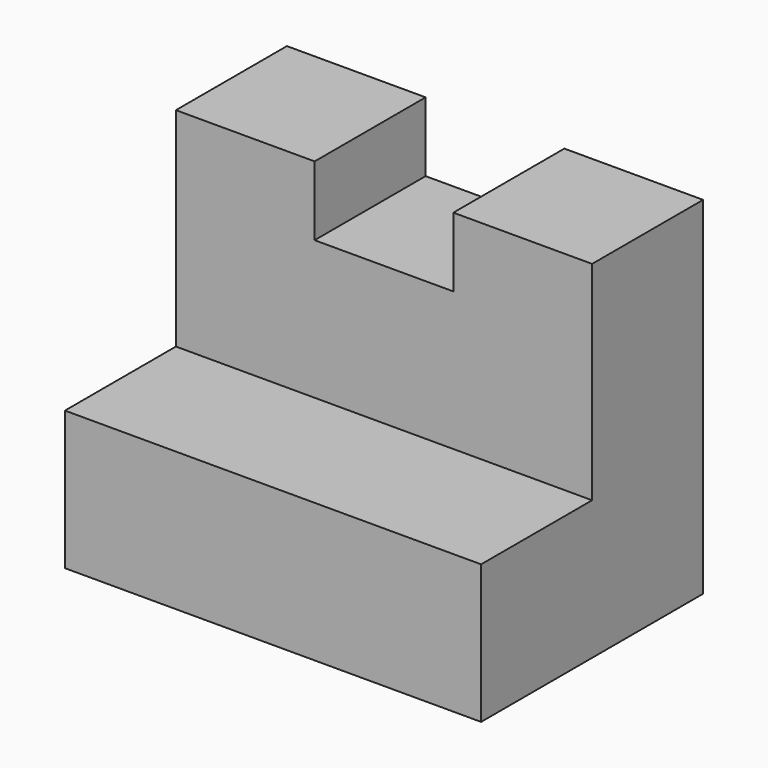
from build123d import *

# Parameters (mm, degrees)
F1_DEPTH = 25.4
F2_DEPTH = 12.7


with BuildPart() as f1:
    # F0 (on Front) → F1 (new body)
    with BuildSketch(Plane.XZ):
        Polygon((0, 12.7), (0, 0), (38.1, 0), (38.1, 10.609599), (38.1, 12.7), align=None)
    extrude(amount=F1_DEPTH)

    # F0 (on Front) → F2 (join)
    with BuildSketch(Plane.XZ):
        Polygon((0, 12.7), (0, 0), (38.1, 0), (38.1, 10.609599), (38.1, 12.7), align=None)
        Polygon((0, 31.75), (0, 12.7), (38.1, 12.7), (38.1, 31.75), (25.4, 31.75), (25.4, 25.4), (12.7, 25.4), (12.7, 31.75), align=None)
    extrude(amount=F2_DEPTH)


solid = f1.part
